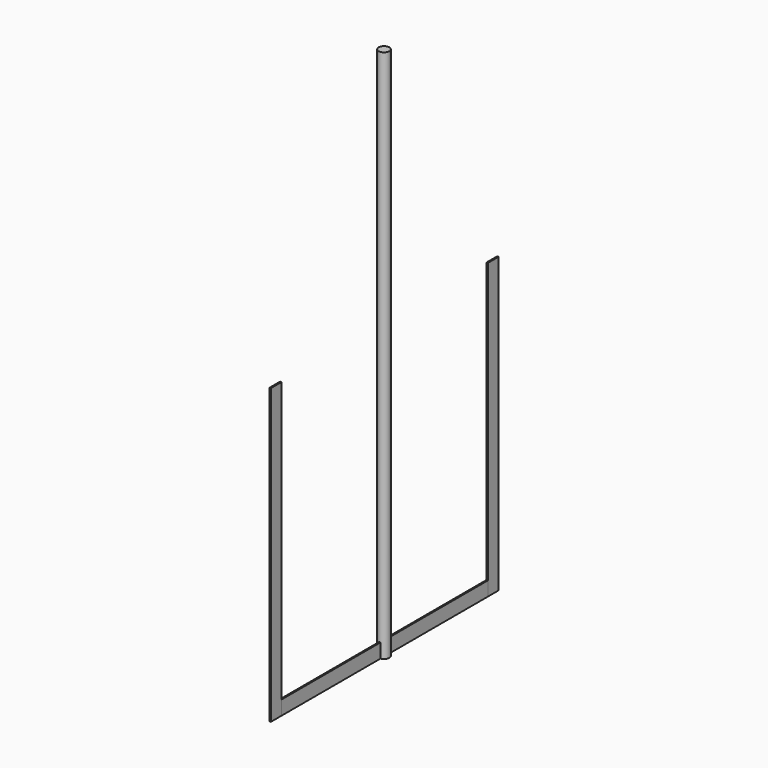
from build123d import *

# Parameters (mm, degrees)
F0_R      = 20
F1_DEPTH  = 2000
F2_W      = 482.932776
F2_H      = 53.329304
F3_DEPTH  = 2.5
F4_DEPTH  = 2.5
F5_W      = 50
F5_H      = 1100
F6_DEPTH  = 2.5
F6_FACE_W = 50
F6_FACE_H = 1100
F7_DEPTH  = 2.5
F8_DEPTH  = 2.5


with BuildPart() as f1:
    # F0 (on Top) → F1 (new body)
    with BuildSketch(Plane.XY):
        Circle(F0_R)
    extrude(amount=F1_DEPTH)

    # F2 (on Right) → F3 (join)
    with BuildSketch(Plane.YZ):
        with Locations((-241.466388, 26.664652)):
            Rectangle(F2_W, F2_H)
        with Locations((241.466388, 26.664652)):
            Rectangle(F2_W, F2_H)
    extrude(amount=F3_DEPTH)

    # F2 (on Right) → F4 (join)
    with BuildSketch(Plane.YZ):
        with Locations((-241.466388, 26.664652)):
            Rectangle(F2_W, F2_H)
        with Locations((241.466388, 26.664652)):
            Rectangle(F2_W, F2_H)
    extrude(amount=-F4_DEPTH)


with BuildPart() as f6:
    # F5 (on Right) → F6 (new body)
    with BuildSketch(Plane.YZ):
        with Locations((-508.0136, 550)):
            Rectangle(F5_W, F5_H)
    extrude(amount=F6_DEPTH)

    # F6_face (on face) → F7 (join)
    with BuildSketch(Plane(origin=(2.5, -508.0136, 550), x_dir=(0, 1, 0), z_dir=(1, 0, 0))):
        Rectangle(F6_FACE_W, F6_FACE_H)
    extrude(amount=-F7_DEPTH)

    # F5 (on Right) → F8 (join)
    with BuildSketch(Plane.YZ):
        with Locations((-508.0136, 550)):
            Rectangle(F5_W, F5_H)
    extrude(amount=-F8_DEPTH)


with BuildPart() as f9_1:
    # F9: instance of F6
    add(f6.part.mirror(Plane.XZ))


solid = Compound([f1.part, f6.part, f9_1.part])
